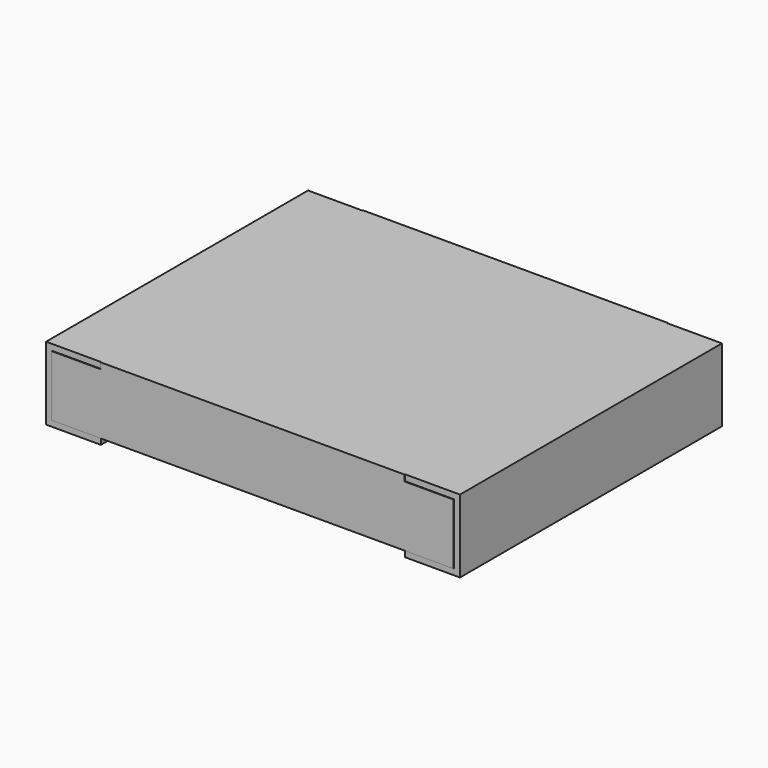
from build123d import *

# Parameters (mm, degrees)
PLATING_LEFT_W      = 0.45
PLATING_LEFT_H      = 2.69
PLATING_LEFT_DEPTH  = 0.6
PLATING_RIGHT_W     = 0.45
PLATING_RIGHT_H     = 2.69
PLATING_RIGHT_DEPTH = 0.6
MARKING_W           = 2.5
MARKING_H           = 2.7
MARKING_DEPTH       = 0.05
CHIP_W              = 3.3
CHIP_H              = 2.7
CHIP_DEPTH          = 0.5


with BuildPart() as plating_left:
    # plating_left → plating_left (new body)
    with BuildSketch(Plane(origin=(-1.7, -1.345, 0), x_dir=(1, 0, 0), z_dir=(0, 0, 1))):
        with Locations((0.225, 1.345)):
            Rectangle(PLATING_LEFT_W, PLATING_LEFT_H)
    extrude(amount=PLATING_LEFT_DEPTH)


with BuildPart() as plating_right:
    # plating_right → plating_right (new body)
    with BuildSketch(Plane(origin=(1.25, -1.345, 0), x_dir=(1, 0, 0), z_dir=(0, 0, 1))):
        with Locations((0.225, 1.345)):
            Rectangle(PLATING_RIGHT_W, PLATING_RIGHT_H)
    extrude(amount=PLATING_RIGHT_DEPTH)


with BuildPart() as marking:
    # marking → marking (new body)
    with BuildSketch(Plane(origin=(-1.25, -1.35, 0.55), x_dir=(1, 0, 0), z_dir=(0, 0, 1))):
        with Locations((1.25, 1.35)):
            Rectangle(MARKING_W, MARKING_H)
    extrude(amount=MARKING_DEPTH)


with BuildPart() as resistor:
    # chip → chip (new body)
    with BuildSketch(Plane(origin=(-1.65, -1.35, 0.05), x_dir=(1, 0, 0), z_dir=(0, 0, 1))):
        with Locations((1.65, 1.35)):
            Rectangle(CHIP_W, CHIP_H)
    extrude(amount=CHIP_DEPTH)

    # resistor: union plating_left, plating_right, marking
    add(plating_left.part)
    add(plating_right.part)
    add(marking.part)


solid = resistor.part
